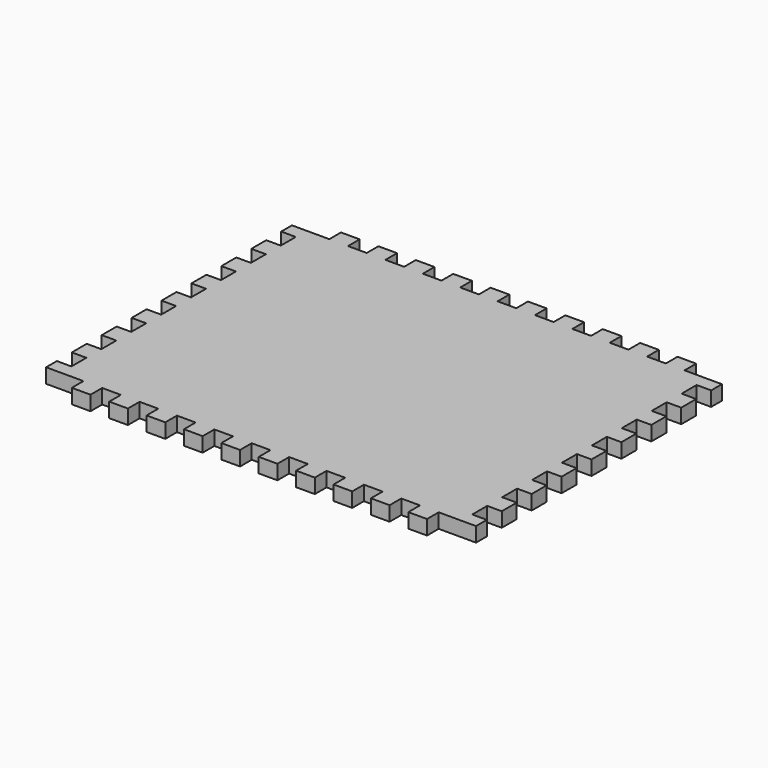
from build123d import *

# Parameters (mm, degrees)
F1_DEPTH = 9.906


with BuildPart() as f1:
    # F0 (on Top) → F1 (new body)
    with BuildSketch(Plane.XY):
        Polygon((38.1, 0), (25.4, 0), (25.4, -9.906), (0, -9.906), (0, -19.05), (9.906, -19.05), (9.906, -31.75), (0, -31.75), (0, -44.45), (9.906, -44.45), (9.906, -57.15), (0, -57.15), (0, -69.85), (9.906, -69.85), (9.906, -82.55), (0, -82.55), (0, -95.25), (9.906, -95.25), (9.906, -107.95), (0, -107.95), (0, -120.65), (9.906, -120.65), (9.906, -133.35), (0, -133.35), (0, -146.05), (9.906, -146.05), (9.906, -158.75), (0, -158.75), (0, -171.45), (9.906, -171.45), (9.906, -184.15), (0, -184.15), (0, -196.85), (9.906, -196.85), (9.906, -209.55), (0, -209.55), (0, -218.694), (25.4, -218.694), (25.4, -228.6), (38.1, -228.6), (38.1, -218.694), (50.8, -218.694), (50.8, -228.6), (63.5, -228.6), (63.5, -218.694), (76.2, -218.694), (76.2, -228.6), (88.9, -228.6), (88.9, -218.694), (101.6, -218.694), (101.6, -228.6), (114.3, -228.6), (114.3, -218.694), (127, -218.694), (127, -228.6), (139.7, -228.6), (139.7, -218.694), (152.4, -218.694), (152.4, -228.6), (165.1, -228.6), (165.1, -218.694), (177.8, -218.694), (177.8, -228.6), (190.5, -228.6), (190.5, -218.694), (203.2, -218.694), (203.2, -228.6), (215.9, -228.6), (215.9, -218.694), (228.6, -218.694), (228.6, -228.6), (241.3, -228.6), (241.3, -218.694), (254, -218.694), (254, -228.6), (266.7, -228.6), (266.7, -218.694), (292.1, -218.694), (292.1, -209.55), (282.194, -209.55), (282.194, -196.85), (292.1, -196.85), (292.1, -184.15), (282.194, -184.15), (282.194, -171.45), (292.1, -171.45), (292.1, -158.75), (282.194, -158.75), (282.194, -146.05), (292.1, -146.05), (292.1, -133.35), (282.194, -133.35), (282.194, -120.65), (292.1, -120.65), (292.1, -107.95), (282.194, -107.95), (282.194, -95.25), (292.1, -95.25), (292.1, -82.55), (282.194, -82.55), (282.194, -69.85), (292.1, -69.85), (292.1, -57.15), (282.194, -57.15), (282.194, -44.45), (292.1, -44.45), (292.1, -31.75), (282.194, -31.75), (282.194, -19.05), (292.1, -19.05), (292.1, -9.906), (266.7, -9.906), (266.7, 0), (254, 0), (254, -9.906), (241.3, -9.906), (241.3, 0), (228.6, 0), (228.6, -9.906), (215.9, -9.906), (215.9, 0), (203.2, 0), (203.2, -9.906), (190.5, -9.906), (190.5, 0), (177.8, 0), (177.8, -9.906), (165.1, -9.906), (165.1, 0), (152.4, 0), (152.4, -9.906), (139.7, -9.906), (139.7, 0), (127, 0), (127, -9.906), (114.3, -9.906), (114.3, 0), (101.6, 0), (101.6, -9.906), (88.9, -9.906), (88.9, 0), (76.2, 0), (76.2, -9.906), (63.5, -9.906), (63.5, 0), (50.8, 0), (50.8, -9.906), (38.1, -9.906), align=None)
    extrude(amount=F1_DEPTH)


solid = f1.part
